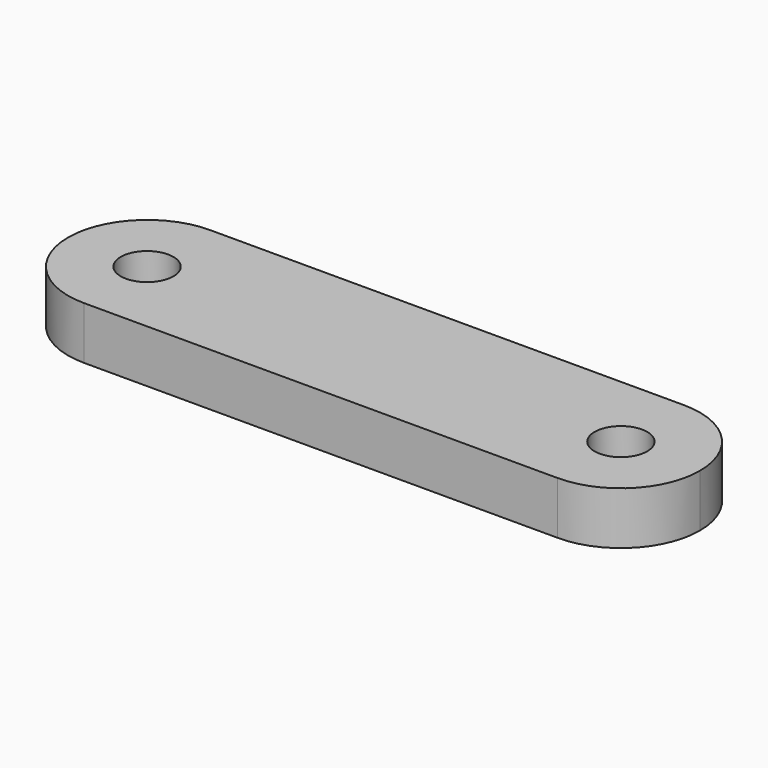
from build123d import *

# Parameters (mm, degrees)
F1_DEPTH = 10
F2_R     = 5
F3_DEPTH = 25


with BuildPart() as f1:
    # F0 (on Top) → F1 (new body)
    with BuildSketch(Plane.XY):
        with BuildLine():
            ThreePointArc((60, 0), (55.606602, 10.606602), (45, 15))
            Line((45, 15), (-45, 15))
            ThreePointArc((-45, 15), (-55.606602, 10.606602), (-60, 0))
            ThreePointArc((-60, 0), (-55.606602, -10.606602), (-45, -15))
            Line((-45, -15), (45, -15))
            ThreePointArc((45, -15), (55.606602, -10.606602), (60, 0))
        make_face()
    extrude(amount=F1_DEPTH)

    # F2 (on face) → F3 (cut)
    with BuildSketch(Plane.XY.offset(10)):
        with Locations((-45, 0)):
            Circle(F2_R)
        with Locations((45, 0)):
            Circle(F2_R)
    extrude(amount=-F3_DEPTH, mode=Mode.SUBTRACT)


solid = f1.part
